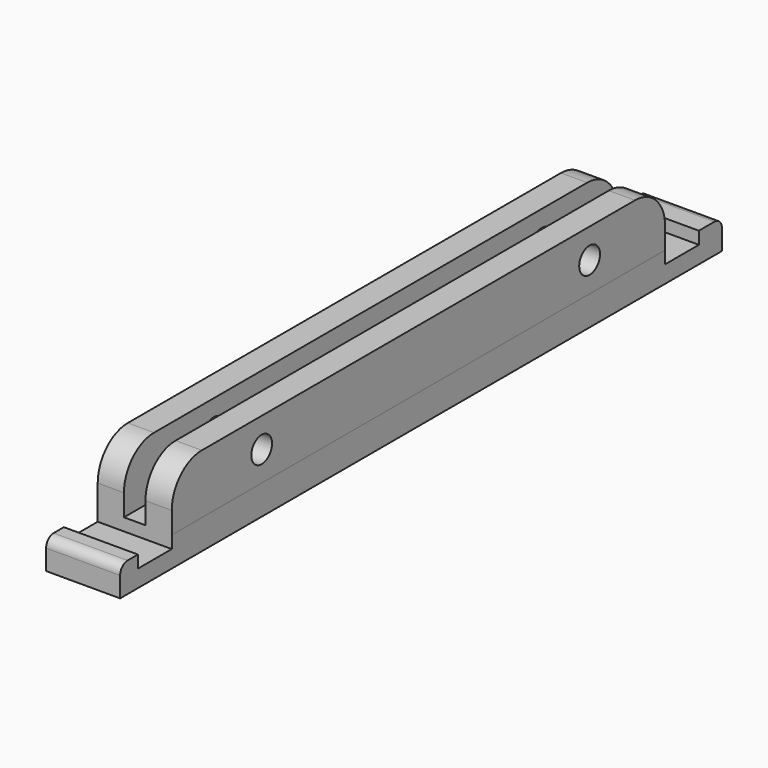
from build123d import *

# Parameters (mm, degrees)
F0_W     = 10.000005
F0_H     = 101.6
F1_DEPTH = 3.999992
F2_W     = 3.545
F2_H     = 83.283524
F3_DEPTH = 8.000009
F4_W     = 10.000005
F4_H     = 5.709733
F4_H_2   = 5.71377
F5_DEPTH = 1.6764
F6_DEPTH = 1.6764
F7_R     = 1.7526
F8_DEPTH = 25.4
F9_R     = 5.08
F10_R    = 5.08
F11_R    = 1.27
F12_R    = 5.08
F13_R    = 5.08
F14_R    = 1.27


with BuildPart() as f1:
    # F0 (on Top) → F1 (new body)
    with BuildSketch(Plane.XY):
        with Locations((-0.961494, 14.724417)):
            Rectangle(F0_W, F0_H)
    extrude(amount=F1_DEPTH)

    # F2 (on face) → F3 (join)
    with BuildSketch(Plane.XY.offset(3.999992)):
        with Locations((2.266009, 14.282725)):
            Rectangle(F2_W, F2_H)
        with Locations((-4.188996, 14.282725)):
            Rectangle(F2_W, F2_H)
    extrude(amount=F3_DEPTH)

    # F4 (on face) → F5 (cut)
    with BuildSketch(Plane.XY.offset(3.999992)):
        with Locations((-0.961494, 58.779353)):
            Rectangle(F4_W, F4_H)
        with Locations((-0.961494, -30.215922)):
            Rectangle(F4_W, F4_H_2)
    extrude(amount=-F5_DEPTH, mode=Mode.SUBTRACT)

    # F4 (on face) → F6 (cut)
    with BuildSketch(Plane.XY.offset(3.999992)):
        with Locations((-0.961494, 58.779353)):
            Rectangle(F4_W, F4_H)
        with Locations((-0.961494, -30.215922)):
            Rectangle(F4_W, F4_H_2)
    extrude(amount=-F6_DEPTH, mode=Mode.SUBTRACT)

    # F7 (on face) → F8 (cut)
    with BuildSketch(Plane.YZ.offset(4.038509)):
        with Locations((-12.17894, 8.000104)):
            Circle(F7_R)
        with Locations((43.18684, 8.000104)):
            Circle(F7_R)
    extrude(amount=-F8_DEPTH, mode=Mode.SUBTRACT)

    # F9
    f9_edges = [f1.edges().sort_by_distance(p)[0] for p in [
        (-4.188996, -27.359037, 12.000001),
    ]]
    fillet(f9_edges, radius=F9_R)

    # F10
    f10_edges = [f1.edges().sort_by_distance(p)[0] for p in [
        (2.266009, -27.359037, 12.000001),
    ]]
    fillet(f10_edges, radius=F10_R)

    # F11
    f11_edges = [f1.edges().sort_by_distance(p)[0] for p in [
        (-0.961494, -36.075583, 3.999992),
    ]]
    fillet(f11_edges, radius=F11_R)

    # F12
    f12_edges = [f1.edges().sort_by_distance(p)[0] for p in [
        (2.266009, 55.924487, 12.000001),
    ]]
    fillet(f12_edges, radius=F12_R)

    # F13
    f13_edges = [f1.edges().sort_by_distance(p)[0] for p in [
        (-4.188996, 55.924487, 12.000001),
    ]]
    fillet(f13_edges, radius=F13_R)

    # F14
    f14_edges = [f1.edges().sort_by_distance(p)[0] for p in [
        (-0.961494, 65.524417, 3.999992),
    ]]
    fillet(f14_edges, radius=F14_R)


solid = f1.part
